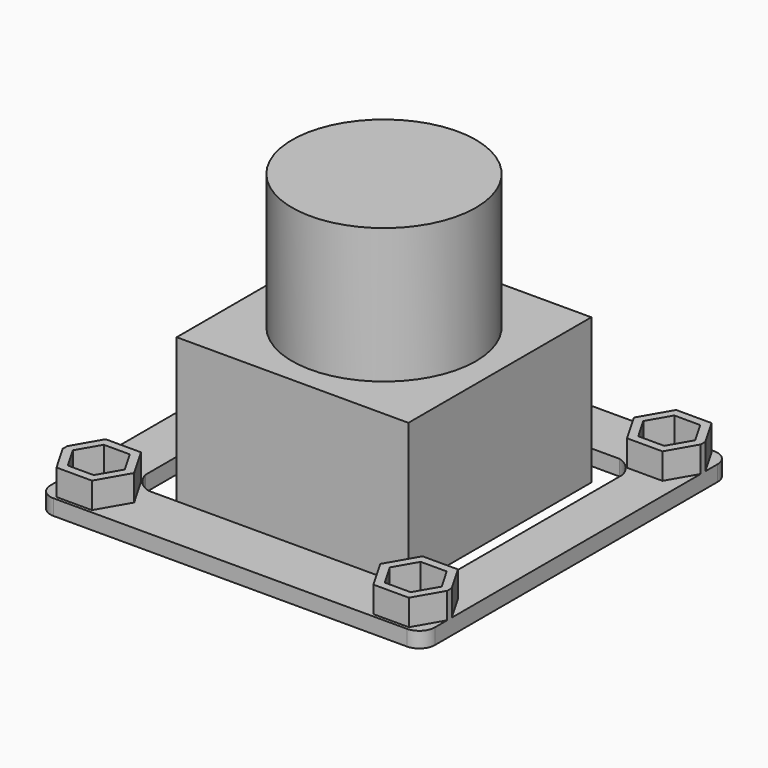
from build123d import *

# Parameters (mm, degrees)
F1_DEPTH = 1.5
F2_DEPTH = 4
F3_W     = 22.3
F3_H     = 22
F3_R     = 8.843373
F4_DEPTH = 14
F5_DEPTH = 27


with BuildPart() as f1:
    # F0 (on Top) → F1 (new body)
    with BuildSketch(Plane.XY):
        with BuildLine():
            Line((17, 18.5), (-17, 18.5))
            ThreePointArc((-17, 18.5), (-18.06066, 18.06066), (-18.5, 17))
            Line((-18.5, 17), (-18.5, 15.524798))
            Line((-18.5, 15.524798), (-16.954327, 18.201981))
            Line((-16.954327, 18.201981), (-13.545673, 18.201981))
            Line((-13.545673, 18.201981), (-11.841346, 15.25))
            Line((-11.841346, 15.25), (-13.545673, 12.298019))
            Line((-13.545673, 12.298019), (-16.954327, 12.298019))
            Line((-16.954327, 12.298019), (-18.5, 14.975202))
            Line((-18.5, 14.975202), (-18.5, -14.975202))
            Line((-18.5, -14.975202), (-16.954327, -12.298019))
            Line((-16.954327, -12.298019), (-13.545673, -12.298019))
            Line((-13.545673, -12.298019), (-11.841346, -15.25))
            Line((-11.841346, -15.25), (-13.545673, -18.201981))
            Line((-13.545673, -18.201981), (-16.954327, -18.201981))
            Line((-16.954327, -18.201981), (-18.5, -15.524798))
            Line((-18.5, -15.524798), (-18.5, -17))
            ThreePointArc((-18.5, -17), (-18.06066, -18.06066), (-17, -18.5))
            Line((-17, -18.5), (17, -18.5))
            ThreePointArc((17, -18.5), (18.06066, -18.06066), (18.5, -17))
            Line((18.5, -17), (18.5, -15.524798))
            Line((18.5, -15.524798), (16.954327, -18.201981))
            Line((16.954327, -18.201981), (13.545673, -18.201981))
            Line((13.545673, -18.201981), (11.841346, -15.25))
            Line((11.841346, -15.25), (13.545673, -12.298019))
            Line((13.545673, -12.298019), (16.954327, -12.298019))
            Line((16.954327, -12.298019), (18.5, -14.975202))
            Line((18.5, -14.975202), (18.5, 14.975202))
            Line((18.5, 14.975202), (16.954327, 12.298019))
            Line((16.954327, 12.298019), (13.545673, 12.298019))
            Line((13.545673, 12.298019), (11.841346, 15.25))
            Line((11.841346, 15.25), (13.545673, 18.201981))
            Line((13.545673, 18.201981), (16.954327, 18.201981))
            Line((16.954327, 18.201981), (18.5, 15.524798))
            Line((18.5, 15.524798), (18.5, 17))
            ThreePointArc((18.5, 17), (18.06066, 18.06066), (17, 18.5))
        make_face()
        with BuildLine():
            ThreePointArc((12.201923, 13.084936), (13.362658, 12.36714), (14, 11.160353))
            Line((14, 11.160353), (14, -11.160353))
            ThreePointArc((14, -11.160353), (13.362658, -12.36714), (12.201923, -13.084936))
            Line((12.201923, -13.084936), (-12.201923, -13.084936))
            ThreePointArc((-12.201923, -13.084936), (-13.362658, -12.36714), (-14, -11.160353))
            Line((-14, -11.160353), (-14, 11.160353))
            ThreePointArc((-14, 11.160353), (-13.362658, 12.36714), (-12.201923, 13.084936))
            Line((-12.201923, 13.084936), (12.201923, 13.084936))
        make_face(mode=Mode.SUBTRACT)
    extrude(amount=F1_DEPTH)

    # F0 (on Top) → F2 (join)
    with BuildSketch(Plane.XY):
        Polygon((-16.954327, 18.201981), (-18.5, 15.524798), (-18.5, 14.975202), (-16.954327, 12.298019), (-13.545673, 12.298019), (-11.841346, 15.25), (-13.545673, 18.201981), align=None)
        Polygon((-14, 17.415064), (-12.75, 15.25), (-14, 13.084936), (-16.5, 13.084936), (-17.75, 15.25), (-16.5, 17.415064), align=None, mode=Mode.SUBTRACT)
        Polygon((18.5, -15.524798), (18.5, -14.975202), (16.954327, -12.298019), (13.545673, -12.298019), (11.841346, -15.25), (13.545673, -18.201981), (16.954327, -18.201981), align=None)
        Polygon((16.5, -17.415064), (14, -17.415064), (12.75, -15.25), (14, -13.084936), (16.5, -13.084936), (17.75, -15.25), align=None, mode=Mode.SUBTRACT)
        Polygon((-16.954327, -12.298019), (-18.5, -14.975202), (-18.5, -15.524798), (-16.954327, -18.201981), (-13.545673, -18.201981), (-11.841346, -15.25), (-13.545673, -12.298019), align=None)
        Polygon((-16.5, -17.415064), (-17.75, -15.25), (-16.5, -13.084936), (-14, -13.084936), (-12.75, -15.25), (-14, -17.415064), align=None, mode=Mode.SUBTRACT)
        Polygon((18.5, 14.975202), (18.5, 15.524798), (16.954327, 18.201981), (13.545673, 18.201981), (11.841346, 15.25), (13.545673, 12.298019), (16.954327, 12.298019), align=None)
        Polygon((14, 17.415064), (16.5, 17.415064), (17.75, 15.25), (16.5, 13.084936), (14, 13.084936), (12.75, 15.25), align=None, mode=Mode.SUBTRACT)
    extrude(amount=F2_DEPTH)


with BuildPart() as f4:
    # F3 (on Top) → F4 (new body)
    with BuildSketch(Plane.XY):
        Rectangle(F3_W, F3_H)
        Circle(F3_R, mode=Mode.SUBTRACT)
    extrude(amount=F4_DEPTH)

    # F3 (on Top) → F5 (join)
    with BuildSketch(Plane.XY):
        Circle(F3_R)
    extrude(amount=F5_DEPTH)


solid = Compound([f1.part, f4.part])
